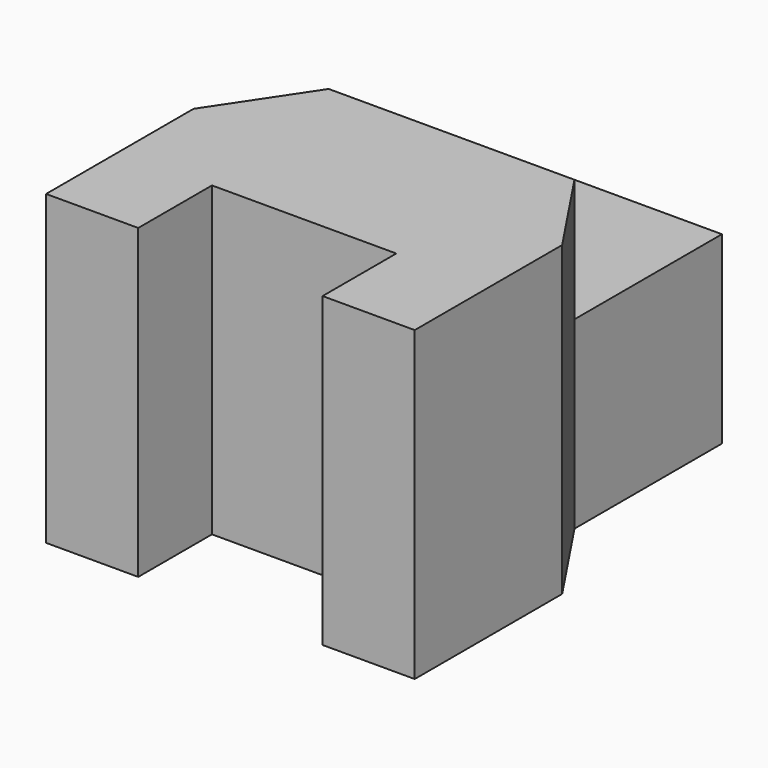
from build123d import *

# Parameters (mm, degrees)
F0_W     = 20
F0_H     = 15
F1_DEPTH = 15
F2_DEPTH = 25


with BuildPart() as f1:
    # F0 (on Top) → F1 (new body)
    with BuildSketch(Plane.XY):
        with Locations((10, -7.5)):
            Rectangle(F0_W, F0_H)
    extrude(amount=F1_DEPTH)

    # F0 (on Top) → F2 (join)
    with BuildSketch(Plane.XY):
        Polygon((20, -15), (0, -15), (-5, -22.5), (-5, -37.5), (2.5, -37.5), (2.5, -30), (17.5, -30), (17.5, -37.5), (25, -37.5), (25, -22.5), align=None)
    extrude(amount=F2_DEPTH)


solid = f1.part
